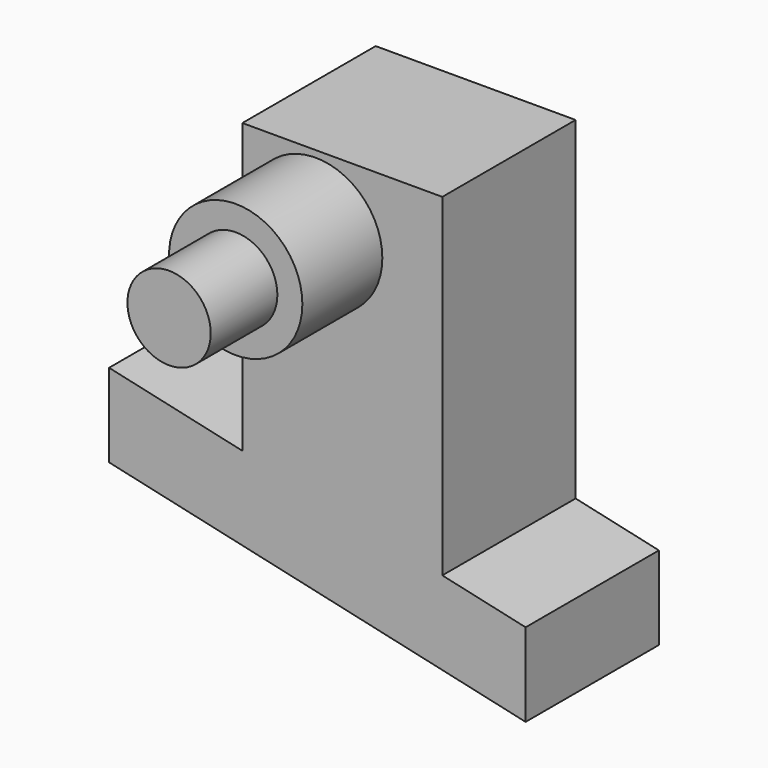
from build123d import *

# Parameters (mm, degrees)
F1_DEPTH = 12.7
F2_R     = 5.08
F3_DEPTH = 7.62
F4_R     = 3.175
F5_DEPTH = 6.35


with BuildPart() as f1:
    # F0 (on Front) → F1 (new body)
    with BuildSketch(Plane.XZ):
        Polygon((-4.581327, 29.096584), (-4.581327, 7.100181), (10.658673, 3.696584), (10.658673, 29.096584), align=None)
        Polygon((-4.581327, 7.100181), (-14.741327, 9.369245), (-14.741327, 3.019245), (17.008673, -4.071582), (17.008673, 2.278418), (10.658673, 3.696584), align=None)
    extrude(amount=F1_DEPTH)

    # F2 (on face) → F3 (join)
    with BuildSketch(Plane.XZ.offset(12.7)):
        with Locations((1.006673, 23.508584)):
            Circle(F2_R)
    extrude(amount=F3_DEPTH)

    # F4 (on face) → F5 (join)
    with BuildSketch(Plane.XZ.offset(20.32)):
        with Locations((1.006673, 23.508584)):
            Circle(F4_R)
    extrude(amount=F5_DEPTH)


solid = f1.part
